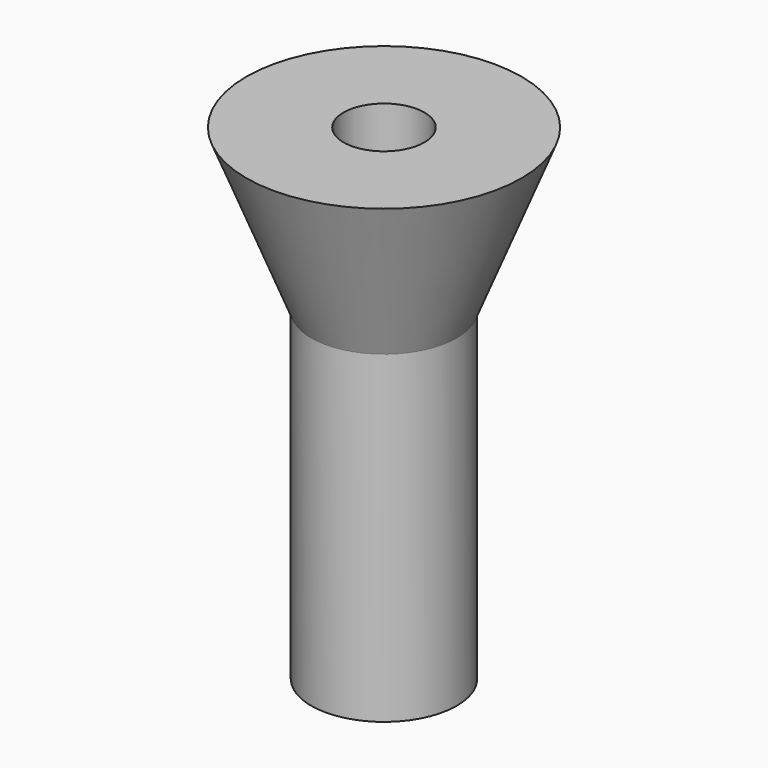
from build123d import *

# Parameters (mm, degrees)
F2_R     = 5.715
F3_DEPTH = 25.4
F4_R     = 3.175
F5_DEPTH = 38.1


with BuildPart() as f1:
    # F0 (on Front) → F1 (revolve)
    with BuildSketch(Plane.XZ):
        Polygon((10.795, 42.584405), (0, 42.584405), (0, 29.884405), (5.715, 29.884405), align=None)
    revolve(axis=Axis((0, 0, 36.234405), (0, 0, -1)))

    # F2 (on face) → F3 (join)
    with BuildSketch(Plane(origin=(0, 0, 29.884405), x_dir=(1, 0, 0), z_dir=(0, 0, -1))):
        Circle(F2_R)
    extrude(amount=F3_DEPTH)

    # F4 (on face) → F5 (cut)
    with BuildSketch(Plane.XY.offset(42.584405)):
        Circle(F4_R)
    extrude(amount=-F5_DEPTH, mode=Mode.SUBTRACT)


solid = f1.part
